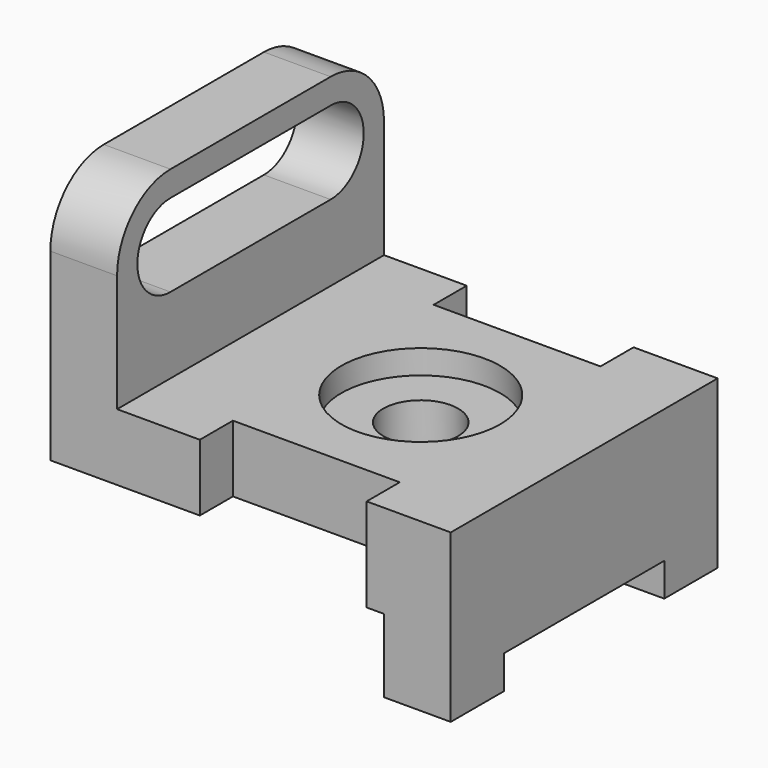
from build123d import *

# Parameters (mm, degrees)
F1_DEPTH  = 63.5
F2_R      = 12.7
F3_W      = 38.1
F3_H      = 6.35
F4_DEPTH  = 25.4
F5_W      = 31.75
F5_H      = 7.874
F6_DEPTH  = 25.4
F8_R      = 15.103409
F9_DEPTH  = 4.572
F10_R     = 7.112
F11_DEPTH = 27.179
F12_DEPTH = 25.4
F13_DEPTH = 12.701


with BuildPart() as f1:
    # F0 (on Front) → F1 (new body)
    with BuildSketch(Plane.XZ):
        Polygon((0, 47.752), (0, 0), (60.198, 0), (60.198, -5.08), (63.5, -5.08), (63.5, -19.05), (76.2, -19.05), (76.2, 12.7), (12.7, 12.7), (12.7, 47.752), align=None)
    extrude(amount=F1_DEPTH)

    # F2
    f2_edges = [f1.edges().sort_by_distance(p)[0] for p in [
        (6.35, -63.5, 47.752),
        (6.35, 0, 47.752),
    ]]
    fillet(f2_edges, radius=F2_R)

    # F3 (on face) → F4 (cut)
    with BuildSketch(Plane.YZ.offset(76.2)):
        with Locations((-31.75, -15.875)):
            Rectangle(F3_W, F3_H)
    extrude(amount=-F4_DEPTH, mode=Mode.SUBTRACT)

    # F5 (on face) → F6 (cut)
    with BuildSketch(Plane.XY.offset(12.7)):
        with Locations((44.323, -59.563)):
            Rectangle(F5_W, F5_H)
        with Locations((44.323, -3.937)):
            Rectangle(F5_W, F5_H)
    extrude(amount=-F6_DEPTH, mode=Mode.SUBTRACT)

    # F8 (on face) → F9 (cut)
    with BuildSketch(Plane.XY.offset(12.7)):
        with Locations((45.094591, -31.75)):
            Circle(F8_R)
    extrude(amount=-F9_DEPTH, mode=Mode.SUBTRACT)

    # F10 (on face) → F11 (cut, through all)
    with BuildSketch(Plane.XY.offset(8.128)):
        with Locations((45.094591, -31.75)):
            Circle(F10_R)
    extrude(amount=-F11_DEPTH, mode=Mode.SUBTRACT)

    # F7 (on face) → F12 (cut)
    with BuildSketch(Plane.YZ.offset(12.7)):
        with BuildLine():
            Line((-12.7, 42.926), (-50.8, 42.926))
            ThreePointArc((-50.8, 42.926), (-58.674, 35.052), (-50.8, 27.178))
            Line((-50.8, 27.178), (-12.7, 27.178))
            ThreePointArc((-12.7, 27.178), (-4.826, 35.052), (-12.7, 42.926))
        make_face()
    extrude(amount=-F12_DEPTH, mode=Mode.SUBTRACT)

    # F7 (on face) → F13 (cut, through all)
    with BuildSketch(Plane.YZ.offset(12.7)):
        with BuildLine():
            Line((-12.7, 42.926), (-50.8, 42.926))
            ThreePointArc((-50.8, 42.926), (-58.674, 35.052), (-50.8, 27.178))
            Line((-50.8, 27.178), (-12.7, 27.178))
            ThreePointArc((-12.7, 27.178), (-4.826, 35.052), (-12.7, 42.926))
        make_face()
    extrude(amount=-F13_DEPTH, mode=Mode.SUBTRACT)


solid = f1.part
